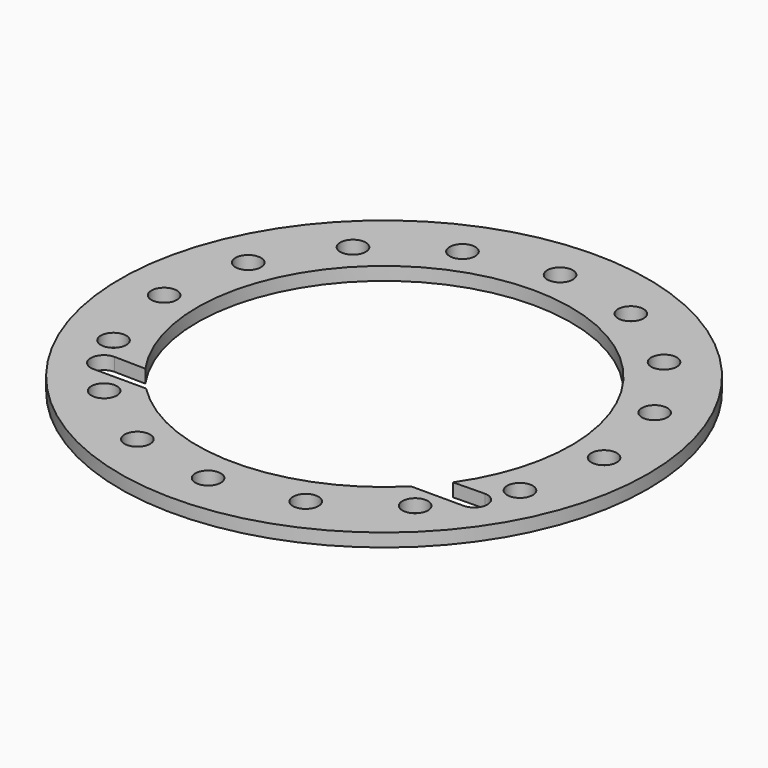
from build123d import *

# Parameters (mm, degrees)
F0_R     = 60
F0_R_2   = 2.9
F1_DEPTH = 3


with BuildPart() as f1:
    # F0 (on Top) → F1 (new body)
    with BuildSketch(Plane.XY):
        Circle(F0_R)
        with Locations((-35.355339, -35.355339)):
            Circle(F0_R_2, mode=Mode.SUBTRACT)
        with Locations((-19.134172, -46.193977)):
            Circle(F0_R_2, mode=Mode.SUBTRACT)
        with Locations((-46.193977, -19.134172)):
            Circle(F0_R_2, mode=Mode.SUBTRACT)
        with Locations((0, -50)):
            Circle(F0_R_2, mode=Mode.SUBTRACT)
        with Locations((19.134172, -46.193977)):
            Circle(F0_R_2, mode=Mode.SUBTRACT)
        with Locations((35.355339, -35.355339)):
            Circle(F0_R_2, mode=Mode.SUBTRACT)
        with Locations((46.193977, -19.134172)):
            Circle(F0_R_2, mode=Mode.SUBTRACT)
        with Locations((-50, 0)):
            Circle(F0_R_2, mode=Mode.SUBTRACT)
        with Locations((-46.193977, 19.134172)):
            Circle(F0_R_2, mode=Mode.SUBTRACT)
        with Locations((-35.355339, 35.355339)):
            Circle(F0_R_2, mode=Mode.SUBTRACT)
        with Locations((-19.134172, 46.193977)):
            Circle(F0_R_2, mode=Mode.SUBTRACT)
        with BuildLine():
            ThreePointArc((-34.982735, -24.134172), (0, 42.5), (34.982735, -24.134172))
            Line((34.982735, -24.134172), (42.083251, -24))
            ThreePointArc((42.083251, -24), (45.083251, -27), (42.083251, -30))
            Line((42.083251, -30), (30.103986, -30))
            ThreePointArc((30.103986, -30), (0, -42.5), (-30.103986, -30))
            Line((-30.103986, -30), (-42.083251, -30))
            ThreePointArc((-42.083251, -30), (-45.083251, -27), (-42.083251, -24))
            Line((-42.083251, -24), (-34.982735, -24.134172))
        make_face(mode=Mode.SUBTRACT)
        with Locations((50, 0)):
            Circle(F0_R_2, mode=Mode.SUBTRACT)
        with Locations((46.193977, 19.134172)):
            Circle(F0_R_2, mode=Mode.SUBTRACT)
        with Locations((0, 50)):
            Circle(F0_R_2, mode=Mode.SUBTRACT)
        with Locations((19.134172, 46.193977)):
            Circle(F0_R_2, mode=Mode.SUBTRACT)
        with Locations((35.355339, 35.355339)):
            Circle(F0_R_2, mode=Mode.SUBTRACT)
    extrude(amount=F1_DEPTH)


solid = f1.part
